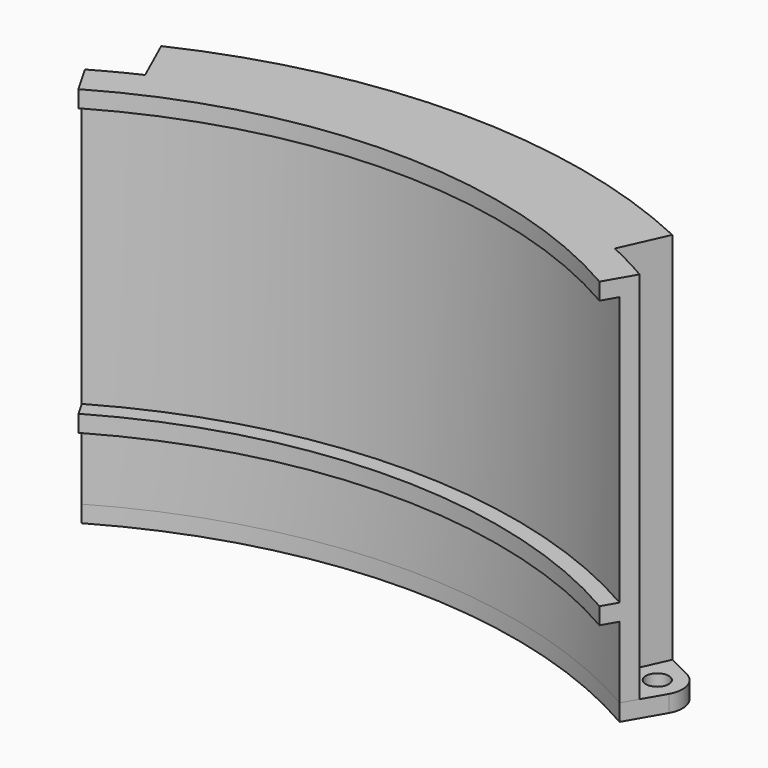
from build123d import *

# Parameters (mm, degrees)
F1_DEPTH = 70.64375
F2_W     = 3.175
F2_H     = 50.8
F2_H_2   = 13.49375
F5_DEPTH = 70.64375
F6_R     = 2.15265
F7_DEPTH = 3.175
F9_DEPTH = 3.175


with BuildPart() as f1:
    # F0 (on Top) → F1 (new body)
    with BuildSketch(Plane.XY):
        with BuildLine():
            ThreePointArc((-49.2125, 85.2385503675), (0, 98.425), (49.2125, 85.2385503675))
            Line((49.2125, 85.2385503675), (57.15, 98.9867036526))
            ThreePointArc((57.15, 98.9867036526), (0, 114.3), (-57.15, 98.9867036526))
            Line((-57.15, 98.9867036526), (-49.2125, 85.2385503675))
        make_face()
    extrude(amount=F1_DEPTH)

    # F2 (on face) → F3 (revolve, cut)
    with BuildSketch(Plane(origin=(0, 0, 0), x_dir=(0.5, -0.8660254038, 0), z_dir=(-0.8660254038, -0.5, 0))):
        with Locations((-100.0125, 42.06875)):
            Rectangle(F2_W, F2_H)
        with Locations((-100.0125, 6.746875)):
            Rectangle(F2_W, F2_H_2)
    revolve(axis=Axis((0, 0, 0), (0, 0, -1)), mode=Mode.SUBTRACT)

    # F4 (on face) → F5 (cut, through all)
    with BuildSketch(Plane.XY.offset(70.64375)):
        with BuildLine():
            ThreePointArc((-48.2700740152, 103.6073836875), (-52.7606451092, 101.3943012583), (-57.15, 98.9867036526))
            Line((-57.15, 98.9867036526), (-52.3875, 90.7378116815))
            ThreePointArc((-52.3875, 90.7378116815), (-48.4225984878, 92.9142216277), (-44.3674611423, 94.9174853059))
            Line((-44.3674611423, 94.9174853059), (-48.2700740152, 103.6073836875))
        make_face()
        with BuildLine():
            Line((-45.3737460178, 104.9081177617), (-41.4711331449, 96.2182193801))
            ThreePointArc((-41.4711331449, 96.2182193801), (-21.9491383614, 102.4501632512), (-1.5875, 104.7629727945))
            Line((-1.5875, 104.7629727945), (-1.5875, 114.2889751627))
            ThreePointArc((-1.5875, 114.2889751627), (-23.944514576, 111.7638144558), (-45.3737460178, 104.9081177617))
        make_face()
        with BuildLine():
            Line((1.5875, 114.2889751627), (1.5875, 104.7629727945))
            ThreePointArc((1.5875, 104.7629727945), (21.9491383614, 102.4501632512), (41.4711331449, 96.2182193801))
            Line((41.4711331449, 96.2182193801), (45.3737460178, 104.9081177617))
            ThreePointArc((45.3737460178, 104.9081177617), (23.944514576, 111.7638144558), (1.5875, 114.2889751627))
        make_face()
        with BuildLine():
            ThreePointArc((44.3674611423, 94.9174853059), (48.4225984878, 92.9142216277), (52.3875, 90.7378116815))
            Line((52.3875, 90.7378116815), (57.15, 98.9867036526))
            ThreePointArc((57.15, 98.9867036526), (52.7606451092, 101.3943012583), (48.2700740152, 103.6073836875))
            Line((48.2700740152, 103.6073836875), (44.3674611423, 94.9174853059))
        make_face()
    extrude(amount=-F5_DEPTH, mode=Mode.SUBTRACT)

    # F6 (on face) → F7 (join)
    with BuildSketch(Plane(origin=(0, 0, 0), x_dir=(1, 0, 0), z_dir=(0, 0, -1))):
        with BuildLine():
            ThreePointArc((50.8, -87.9881810245), (0, -101.6), (-50.8, -87.9881810245))
            Line((-50.8, -87.9881810245), (-54.7169592083, -94.7725533844))
            ThreePointArc((-54.7169592083, -94.7725533844), (-55.1648447708, -98.4861661221), (-52.7921877107, -101.3778817924))
            ThreePointArc((-52.7921877107, -101.3778817924), (0, -114.3), (52.7921877107, -101.3778817924))
            ThreePointArc((52.7921877107, -101.3778817924), (55.1648447708, -98.4861661221), (54.7169592083, -94.7725533844))
            Line((54.7169592083, -94.7725533844), (50.8, -87.9881810245))
        make_face()
        with Locations((-50.5925132228, -97.1538033844)):
            Circle(F6_R, mode=Mode.SUBTRACT)
        with Locations((50.5925132228, -97.1538033844)):
            Circle(F6_R, mode=Mode.SUBTRACT)
    extrude(amount=F7_DEPTH)

    # F8 (on face) → F9 (join)
    with BuildSketch(Plane.XY.offset(70.64375)):
        with BuildLine():
            Line((44.3674611423, 94.9174853059), (48.2700740152, 103.6073836875))
            ThreePointArc((48.2700740152, 103.6073836875), (0, 114.3), (-48.2700740152, 103.6073836875))
            Line((-48.2700740152, 103.6073836875), (-44.3674611423, 94.9174853059))
            ThreePointArc((-44.3674611423, 94.9174853059), (0, 104.775), (44.3674611423, 94.9174853059))
        make_face()
    extrude(amount=-F9_DEPTH)


solid = f1.part
